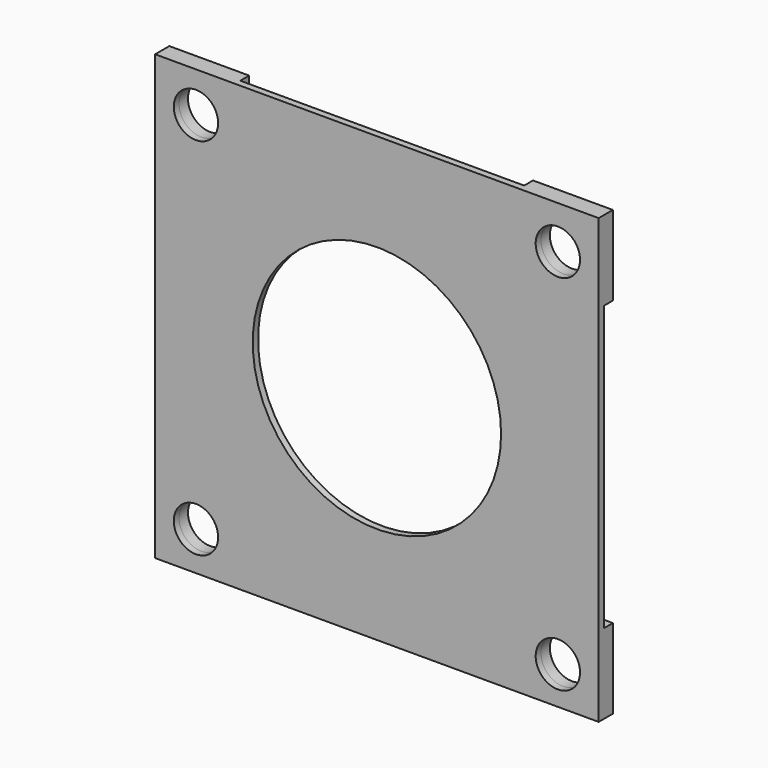
from build123d import *

# Parameters (mm, degrees)
F0_R     = 5
F0_R_2   = 28
F1_DEPTH = 1.5
F2_DEPTH = 2.5


with BuildPart() as f1:
    # F0 (on Front) → F1 (new body)
    with BuildSketch(Plane.XZ):
        with BuildLine():
            Line((-32, 50), (-50, 50))
            Line((-50, 50), (-50, 32))
            Line((-50, 32), (-37, 32))
            ThreePointArc((-37, 32), (-33.464466, 33.464466), (-32, 37))
            Line((-32, 37), (-32, 50))
        make_face()
        with Locations((-40.800001, 40.95)):
            Circle(F0_R, mode=Mode.SUBTRACT)
        with BuildLine():
            Line((50, 50), (32, 50))
            Line((32, 50), (32, 37))
            ThreePointArc((32, 37), (33.464466, 33.464466), (37, 32))
            Line((37, 32), (50, 32))
            Line((50, 32), (50, 50))
        make_face()
        with Locations((40.800005, 40.350001)):
            Circle(F0_R, mode=Mode.SUBTRACT)
        with BuildLine():
            Line((50, -50), (50, -32))
            Line((50, -32), (37, -32))
            ThreePointArc((37, -32), (33.464466, -33.464466), (32, -37))
            Line((32, -37), (32, -50))
            Line((32, -50), (50, -50))
        make_face()
        with Locations((40.800005, -41.550003)):
            Circle(F0_R, mode=Mode.SUBTRACT)
        with BuildLine():
            Line((-37, -32), (-50, -32))
            Line((-50, -32), (-50, -50))
            Line((-50, -50), (-32, -50))
            Line((-32, -50), (-32, -37))
            ThreePointArc((-32, -37), (-33.464466, -33.464466), (-37, -32))
        make_face()
        with Locations((-40.800001, -41.250005)):
            Circle(F0_R, mode=Mode.SUBTRACT)
        with BuildLine():
            Line((32, 50), (-32, 50))
            Line((-32, 50), (-32, 37))
            ThreePointArc((-32, 37), (-33.464466, 33.464466), (-37, 32))
            Line((-37, 32), (-50, 32))
            Line((-50, 32), (-50, -32))
            Line((-50, -32), (-37, -32))
            ThreePointArc((-37, -32), (-33.464466, -33.464466), (-32, -37))
            Line((-32, -37), (-32, -50))
            Line((-32, -50), (32, -50))
            Line((32, -50), (32, -37))
            ThreePointArc((32, -37), (33.464466, -33.464466), (37, -32))
            Line((37, -32), (50, -32))
            Line((50, -32), (50, 32))
            Line((50, 32), (37, 32))
            ThreePointArc((37, 32), (33.464466, 33.464466), (32, 37))
            Line((32, 37), (32, 50))
        make_face()
        Circle(F0_R_2, mode=Mode.SUBTRACT)
    extrude(amount=F1_DEPTH)

    # F0 (on Front) → F2 (join)
    with BuildSketch(Plane.XZ):
        with BuildLine():
            Line((-32, 50), (-50, 50))
            Line((-50, 50), (-50, 32))
            Line((-50, 32), (-37, 32))
            ThreePointArc((-37, 32), (-33.464466, 33.464466), (-32, 37))
            Line((-32, 37), (-32, 50))
        make_face()
        with Locations((-40.800001, 40.95)):
            Circle(F0_R, mode=Mode.SUBTRACT)
        with BuildLine():
            Line((50, 50), (32, 50))
            Line((32, 50), (32, 37))
            ThreePointArc((32, 37), (33.464466, 33.464466), (37, 32))
            Line((37, 32), (50, 32))
            Line((50, 32), (50, 50))
        make_face()
        with Locations((40.800005, 40.350001)):
            Circle(F0_R, mode=Mode.SUBTRACT)
        with BuildLine():
            Line((-37, -32), (-50, -32))
            Line((-50, -32), (-50, -50))
            Line((-50, -50), (-32, -50))
            Line((-32, -50), (-32, -37))
            ThreePointArc((-32, -37), (-33.464466, -33.464466), (-37, -32))
        make_face()
        with Locations((-40.800001, -41.250005)):
            Circle(F0_R, mode=Mode.SUBTRACT)
        with BuildLine():
            Line((50, -50), (50, -32))
            Line((50, -32), (37, -32))
            ThreePointArc((37, -32), (33.464466, -33.464466), (32, -37))
            Line((32, -37), (32, -50))
            Line((32, -50), (50, -50))
        make_face()
        with Locations((40.800005, -41.550003)):
            Circle(F0_R, mode=Mode.SUBTRACT)
    extrude(amount=-F2_DEPTH)


solid = f1.part
